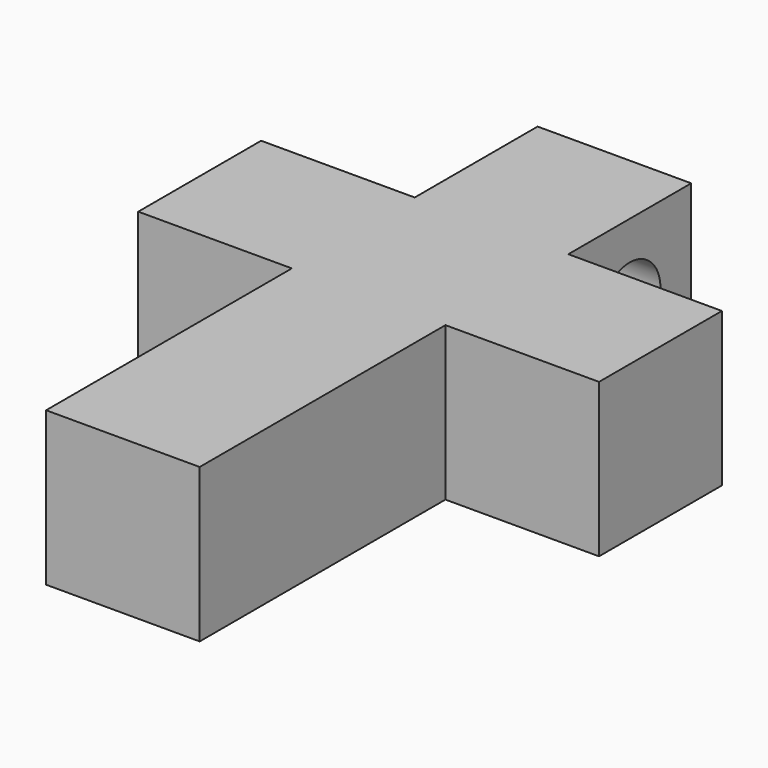
from build123d import *

# Parameters (mm, degrees)
F0_W     = 3
F0_H     = 3
F0_H_2   = 6
F1_DEPTH = 3
F2_R     = 0.75
F3_DEPTH = 25


with BuildPart() as f1:
    # F0 (on Top) → F1 (new body)
    with BuildSketch(Plane.XY):
        with Locations((0, 3)):
            Rectangle(F0_W, F0_H)
        Rectangle(F0_W, F0_H)
        with Locations((-3, 0)):
            Rectangle(F0_W, F0_H)
        with Locations((0, -4.5)):
            Rectangle(F0_W, F0_H_2)
        with Locations((3, 0)):
            Rectangle(F0_W, F0_H)
    extrude(amount=F1_DEPTH)

    # F2 (on face) → F3 (cut)
    with BuildSketch(Plane(origin=(-1.5, 0, 0), x_dir=(0, -1, 0), z_dir=(-1, 0, 0))):
        with Locations((-3, 1.5)):
            Circle(F2_R)
    extrude(amount=-F3_DEPTH, mode=Mode.SUBTRACT)


solid = f1.part
